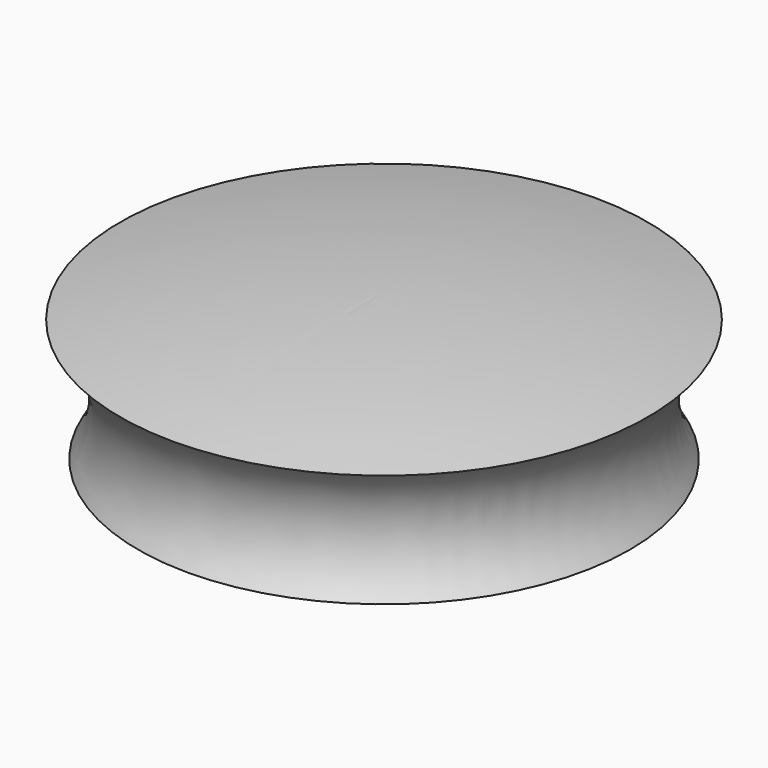
from build123d import *


with BuildPart() as f1:
    # F0 (on Right) → F1 (revolve)
    with BuildSketch(Plane.YZ):
        with BuildLine():
            ThreePointArc((-5.732637, 3.647188), (-5.021272, 2.390923), (-5.340944, 0.98307))
            ThreePointArc((-5.340944, 0.98307), (-2.715332, 0.247815), (0, 0))
            Line((0, 0), (0, 4.2))
            ThreePointArc((0, 4.2), (-2.879615, 4.061477), (-5.732637, 3.647188))
        make_face()
    revolve(axis=Axis((0, 0, 2.1), (0, 0, -1)))


solid = f1.part
